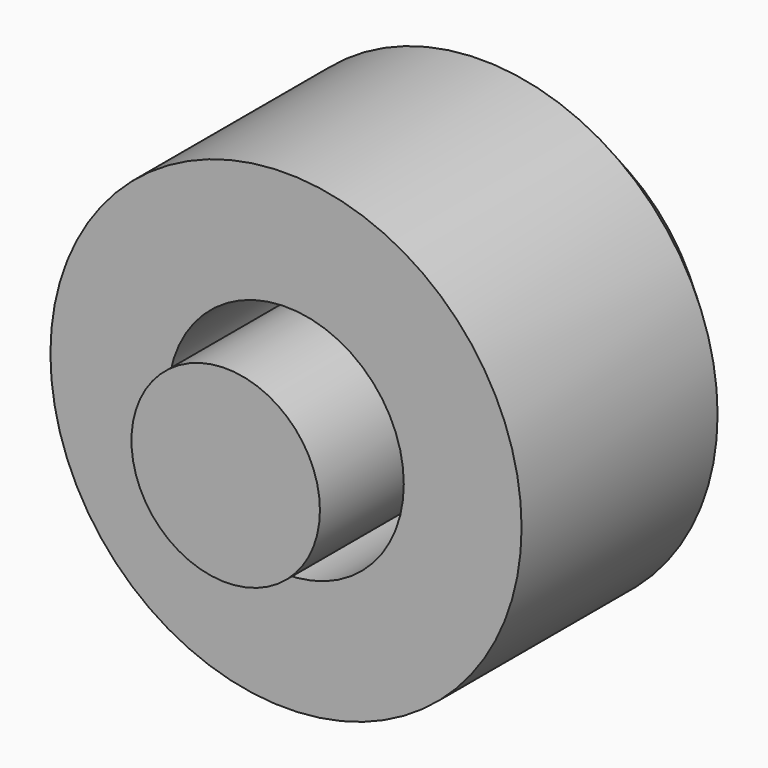
from build123d import *

# Parameters (mm, degrees)
F0_R     = 3.175
F1_DEPTH = 4.064
F2_R     = 1.5875
F3_DEPTH = 2.032
F4_R     = 1.27
F5_DEPTH = 3.048
F6_SIZE  = 0.762


with BuildPart() as f1:
    # F0 (on Front) → F1 (new body)
    with BuildSketch(Plane.XZ):
        Circle(F0_R)
    extrude(amount=F1_DEPTH)

    # F2 (on face) → F3 (cut)
    with BuildSketch(Plane.XZ.offset(4.064)):
        Circle(F2_R)
    extrude(amount=-F3_DEPTH, mode=Mode.SUBTRACT)

    # F4 (on face) → F5 (join)
    with BuildSketch(Plane.XZ.offset(2.032)):
        Circle(F4_R)
    extrude(amount=F5_DEPTH)

    # F6
    f6_edges = [f1.edges().sort_by_distance(p)[0] for p in [
        (-3.175, 0, 0),
    ]]
    chamfer(f6_edges, length=F6_SIZE)


solid = f1.part
